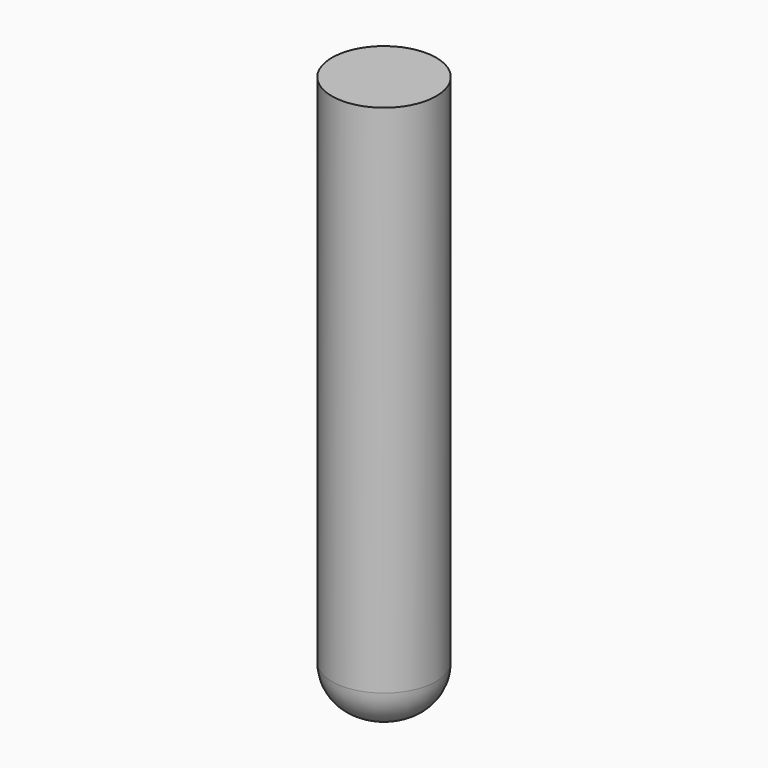
from build123d import *

# Parameters (mm, degrees)
F0_R          = 23.779911
F1_DEPTH      = 25.4
F1_DEPTH_BACK = 228.6
F2_R          = 19.05


with BuildPart() as f1:
    # F0 (on Top) → F1 (new body, two sides)
    with BuildSketch(Plane.XY) as f1_sk:
        Circle(F0_R)
    extrude(amount=F1_DEPTH)
    extrude(f1_sk.sketch, amount=-F1_DEPTH_BACK)

    # F2
    f2_edges = [f1.edges().sort_by_distance(p)[0] for p in [
        (-23.779911, 0, -228.6),
    ]]
    fillet(f2_edges, radius=F2_R)


solid = f1.part
